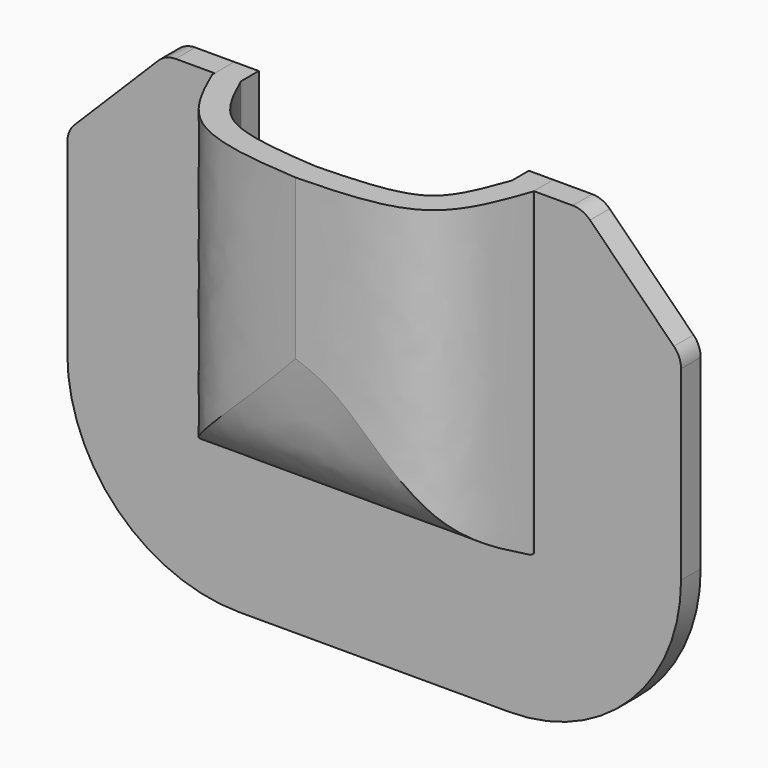
from build123d import *

# Parameters (mm, degrees)
F1_DEPTH = 5
F2_W     = 65
F2_H     = 65
F3_DEPTH = 25
F7_DEPTH = 65
F8_DEPTH = 65
F9_DEPTH = 65
F10_R    = 35
F11_R    = 35
F12_SIZE = 20
F13_SIZE = 20
F14_R    = 5
F15_T    = -5


with BuildPart() as f1:
    # F0 (on Front) → F1 (new body)
    with BuildSketch(Plane.XZ):
        Polygon((-62.5, 47.5), (-62.5, -47.5), (62.5, -47.5), (62.5, 47.5), (32.5, 47.5), (32.5, 17.5), (32.5, -17.5), (-32.5, -17.5), (-32.5, 17.5), (-32.5, 47.5), align=None)
    extrude(amount=F1_DEPTH)

    # F10
    f10_edges = [f1.edges().sort_by_distance(p)[0] for p in [
        (-62.5, -2.5, -47.5),
    ]]
    fillet(f10_edges, radius=F10_R)

    # F11
    f11_edges = [f1.edges().sort_by_distance(p)[0] for p in [
        (62.5, -2.5, -47.5),
    ]]
    fillet(f11_edges, radius=F11_R)

    # F12
    f12_edges = [f1.edges().sort_by_distance(p)[0] for p in [
        (62.5, -2.5, 47.5),
    ]]
    chamfer(f12_edges, length=F12_SIZE)

    # F13
    f13_edges = [f1.edges().sort_by_distance(p)[0] for p in [
        (-62.5, -2.5, 47.5),
    ]]
    chamfer(f13_edges, length=F13_SIZE)

    # F14
    f14_edges = [f1.edges().sort_by_distance(p)[0] for p in [
        (42.5, -2.5, 47.5),
        (-42.5, -2.5, 47.5),
        (62.5, -2.5, 27.5),
        (-62.5, -2.5, 27.5),
    ]]
    fillet(f14_edges, radius=F14_R)


with BuildPart() as f3:
    # F2 (on face) → F3 (new body)
    with BuildSketch(Plane(origin=(0, 0, 0), x_dir=(-1, 0, 0), z_dir=(0, 1, 0))):
        with Locations((0, 15)):
            Rectangle(F2_W, F2_H)
    extrude(amount=-F3_DEPTH)

    # F6 (on face) → F7 (cut)
    with BuildSketch(Plane(origin=(0, 0, -17.5), x_dir=(1, 0, 0), z_dir=(0, 0, -1))):
        with BuildLine():
            Line((32.5, 25), (0, 25))
            add(Edge.make_bspline(
                [(0, 25), (8.9831560964, 24.7356032013), (25.7400806439, 24.2424068327), (30.3577846442, 11.2260573238), (32.5, 5.1875934005)],
                knots=[0, 0, 0, 0, 0.5360861676, 1, 1, 1, 1], degree=3))
            Line((32.5, 5.1875934005), (32.5, 25))
        make_face()
    extrude(amount=-F7_DEPTH, mode=Mode.SUBTRACT)

    # F5 (on face) → F8 (cut)
    with BuildSketch(Plane(origin=(-32.5, 0, 0), x_dir=(0, -1, 0), z_dir=(-1, 0, 0))):
        with BuildLine():
            Line((25, -17.5), (25, 15))
            add(Edge.make_bspline(
                [(25, 15), (24.3763252453, 6.7012881278), (23.2004686952, -8.9448490093), (11.2752006062, -14.7662638453), (5.6750960648, -17.5)],
                knots=[0, 0, 0, 0, 0.5303999994, 1, 1, 1, 1], degree=3))
            Line((5.6750960648, -17.5), (25, -17.5))
        make_face()
    extrude(amount=-F8_DEPTH, mode=Mode.SUBTRACT)

    # F4 (on face) → F9 (cut)
    with BuildSketch(Plane.XY.offset(47.5)):
        with BuildLine():
            Line((-32.5, -25), (0, -25))
            add(Edge.make_bspline(
                [(0, -25), (-8.6973164519, -24.3217387105), (-24.8242839164, -23.0640764791), (-30.0791135259, -11.1290940087), (-32.5, -5.6306794286)],
                knots=[0, 0, 0, 0, 0.5393026017, 1, 1, 1, 1], degree=3))
            Line((-32.5, -5.6306794286), (-32.5, -25))
        make_face()
    extrude(amount=-F9_DEPTH, mode=Mode.SUBTRACT)

    # F15
    f15_openings = [f3.faces().sort_by_distance(p)[0] for p in [
        (0.301187, -11.064049, 47.5),
        (0, 0, 15),
    ]]
    offset(amount=F15_T, openings=f15_openings, kind=Kind.INTERSECTION)


solid = Compound([f1.part, f3.part])
